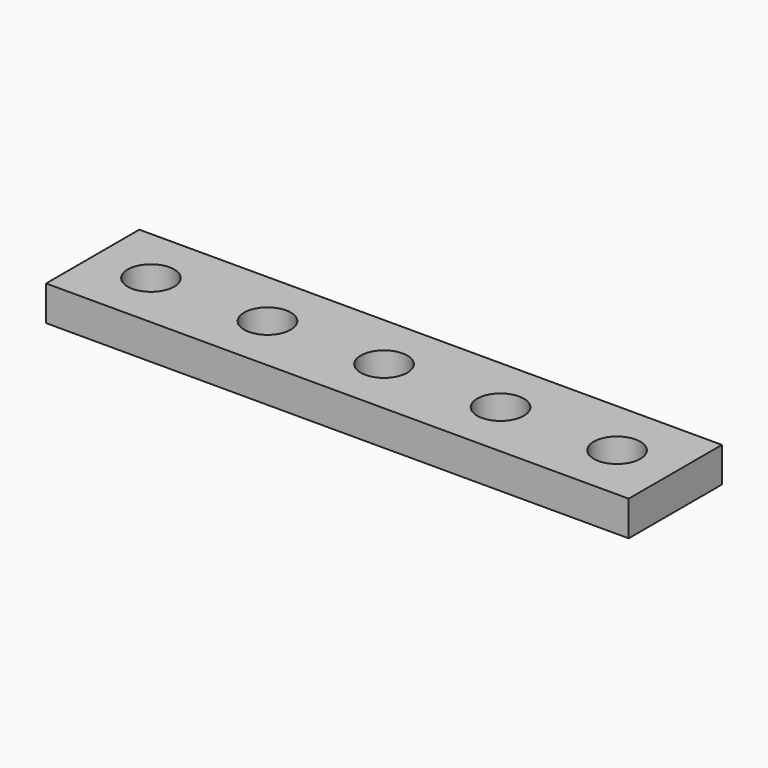
from build123d import *

# Parameters (mm, degrees)
CYLINDER004_R     = 2
CYLINDER004_DEPTH = 10
CYLINDER003_R     = 2
CYLINDER003_DEPTH = 10
CYLINDER002_R     = 2
CYLINDER002_DEPTH = 10
CYLINDER001_R     = 2
CYLINDER001_DEPTH = 10
CYLINDER_R        = 2
CYLINDER_DEPTH    = 10
BOX_W             = 50
BOX_H             = 10
BOX_DEPTH         = 3


with BuildPart() as cilindro004:
    # Cylinder004 → Cylinder004 (new body)
    with BuildSketch(Plane(origin=(45, 5, 0), x_dir=(1, 0, 0), z_dir=(0, 0, 1))):
        Circle(CYLINDER004_R)
    extrude(amount=CYLINDER004_DEPTH)


with BuildPart() as cilindro003:
    # Cylinder003 → Cylinder003 (new body)
    with BuildSketch(Plane(origin=(35, 5, 0), x_dir=(1, 0, 0), z_dir=(0, 0, 1))):
        Circle(CYLINDER003_R)
    extrude(amount=CYLINDER003_DEPTH)


with BuildPart() as cilindro002:
    # Cylinder002 → Cylinder002 (new body)
    with BuildSketch(Plane(origin=(25, 5, 0), x_dir=(1, 0, 0), z_dir=(0, 0, 1))):
        Circle(CYLINDER002_R)
    extrude(amount=CYLINDER002_DEPTH)


with BuildPart() as cilindro001:
    # Cylinder001 → Cylinder001 (new body)
    with BuildSketch(Plane(origin=(15, 5, 0), x_dir=(1, 0, 0), z_dir=(0, 0, 1))):
        Circle(CYLINDER001_R)
    extrude(amount=CYLINDER001_DEPTH)


with BuildPart() as cilindro:
    # Cylinder → Cylinder (new body)
    with BuildSketch(Plane(origin=(5, 5, 0), x_dir=(1, 0, 0), z_dir=(0, 0, 1))):
        Circle(CYLINDER_R)
    extrude(amount=CYLINDER_DEPTH)


with BuildPart() as cut004:
    # Box → Box (new body)
    with BuildSketch(Plane.XY):
        with Locations((25, 5)):
            Rectangle(BOX_W, BOX_H)
    extrude(amount=BOX_DEPTH)

    # Cut: cut Cilindro
    add(cilindro.part, mode=Mode.SUBTRACT)

    # Cut001: cut Cilindro001
    add(cilindro001.part, mode=Mode.SUBTRACT)

    # Cut002: cut Cilindro002
    add(cilindro002.part, mode=Mode.SUBTRACT)

    # Cut003: cut Cilindro003
    add(cilindro003.part, mode=Mode.SUBTRACT)

    # Cut004: cut Cilindro004
    add(cilindro004.part, mode=Mode.SUBTRACT)


solid = cut004.part
